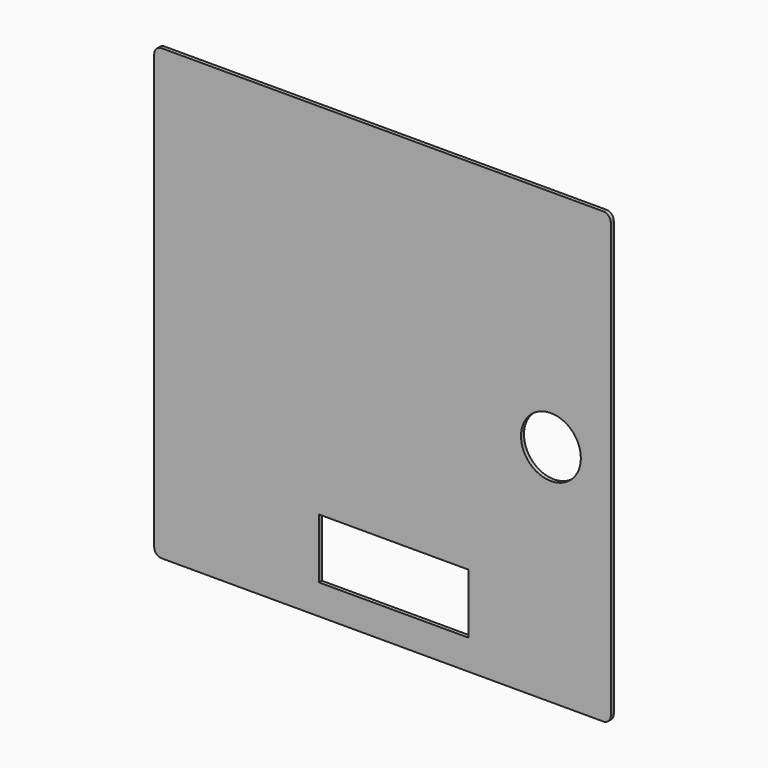
from build123d import *

# Parameters (mm, degrees)
F0_W     = 127
F0_H     = 50.8
F0_R     = 25.4
F1_DEPTH = 3.175


with BuildPart() as f1:
    # F0 (on Front) → F1 (new body)
    with BuildSketch(Plane.XZ):
        with BuildLine():
            ThreePointArc((0, 6.35), (1.859872, 1.859872), (6.35, 0))
            Line((6.35, 0), (381, 0))
            ThreePointArc((381, 0), (385.490128, 1.859872), (387.35, 6.35))
            Line((387.35, 6.35), (387.35, 374.65))
            ThreePointArc((387.35, 374.65), (385.490128, 379.140128), (381, 381))
            Line((381, 381), (6.35, 381))
            ThreePointArc((6.35, 381), (1.859872, 379.140128), (0, 374.65))
            Line((0, 374.65), (0, 6.35))
        make_face()
        with Locations((203.2, 50.8)):
            Rectangle(F0_W, F0_H, mode=Mode.SUBTRACT)
        with Locations((336.55, 190.5)):
            Circle(F0_R, mode=Mode.SUBTRACT)
    extrude(amount=F1_DEPTH)


solid = f1.part
